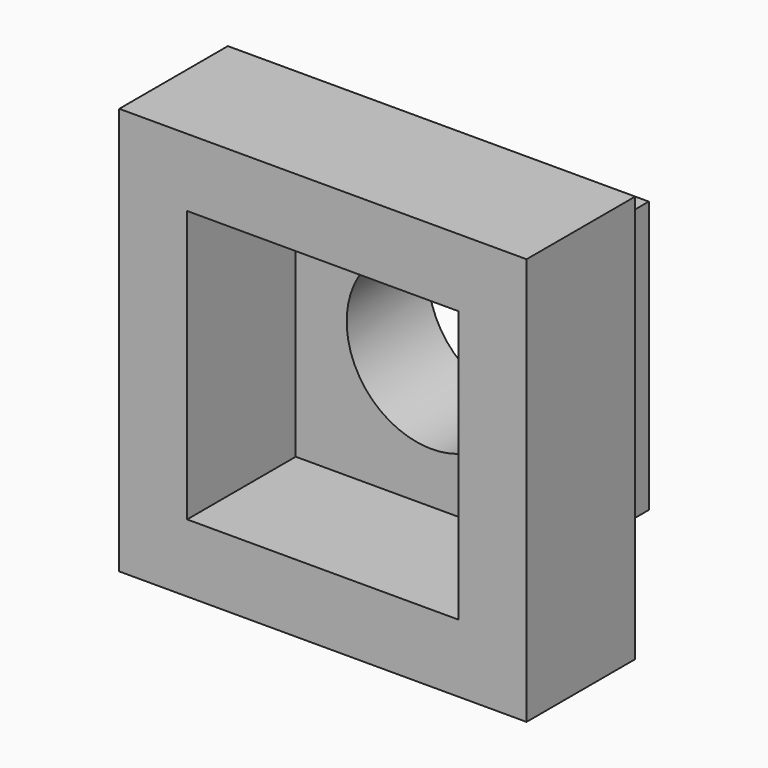
from build123d import *

# Parameters (mm, degrees)
F0_W     = 101.6
F0_H     = 101.6
F0_R     = 31.75
F1_DEPTH = 38.1
F0_W_2   = 152.4
F0_H_2   = 152.4
F2_DEPTH = 50.8


with BuildPart() as f1:
    # F0 (on Front) → F1 (new body)
    with BuildSketch(Plane.XZ):
        Rectangle(F0_W, F0_H)
        Circle(F0_R, mode=Mode.SUBTRACT)
    extrude(amount=-F1_DEPTH)

    # F0 (on Front) → F2 (join)
    with BuildSketch(Plane.XZ):
        Rectangle(F0_W_2, F0_H_2)
        Rectangle(F0_W, F0_H, mode=Mode.SUBTRACT)
    extrude(amount=F2_DEPTH)


solid = f1.part
